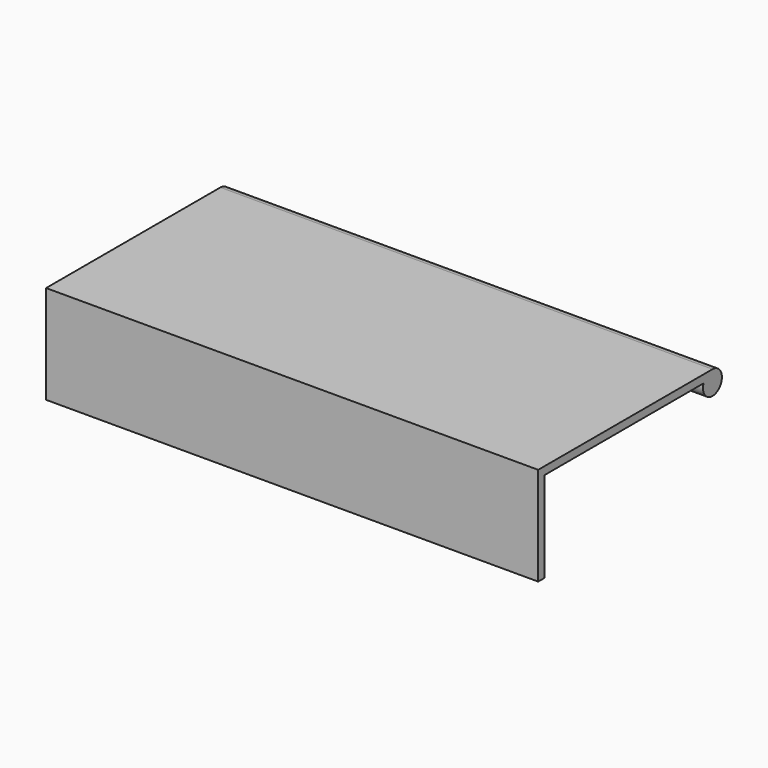
from build123d import *

# Parameters (mm, degrees)
F1_DEPTH = 95.25


with BuildPart() as f1:
    # F0 (on Right) → F1 (new body)
    with BuildSketch(Plane.YZ):
        with BuildLine():
            ThreePointArc((22.225, 7.239), (21.555446, 8.855446), (19.939, 9.525))
            ThreePointArc((19.939, 9.525), (18.619177, 9.105511), (17.783739, 8.001))
            ThreePointArc((17.783739, 8.001), (19.552433, 4.985922), (22.225, 7.239))
        make_face()
        with BuildLine():
            ThreePointArc((17.783739, 8.001), (18.619177, 9.105511), (19.939, 9.525))
            Line((19.939, 9.525), (-22.225, 9.525))
            Line((-22.225, 9.525), (-22.225, -9.525))
            Line((-22.225, -9.525), (-20.701, -9.525))
            Line((-20.701, -9.525), (-20.701, 8.001))
            Line((-20.701, 8.001), (17.783739, 8.001))
        make_face()
    extrude(amount=F1_DEPTH)


solid = f1.part
